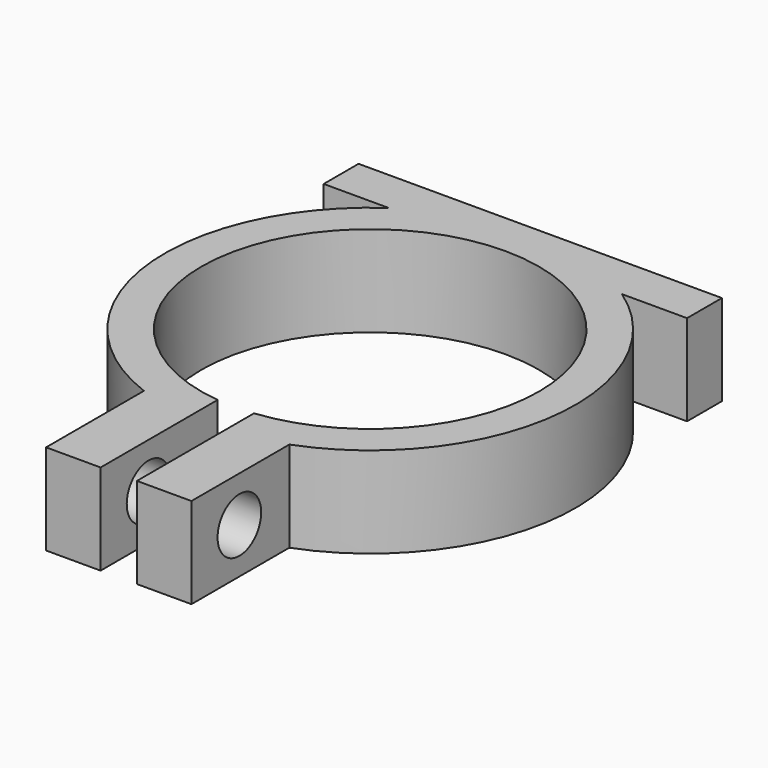
from build123d import *

# Parameters (mm, degrees)
BOX005_W                = 2
BOX005_H                = 10
BOX005_DEPTH            = 10
CYLINDER029_R           = 9.299038
CYLINDER029_DEPTH       = 10
CYLINDER030_R           = 11.299038
CYLINDER030_DEPTH       = 5
CYLINDER032_R           = 1.25
CYLINDER032_DEPTH       = 5
CYLINDER032_ROLL_ANGLE  = 90
CYLINDER031_R           = 1.25
CYLINDER031_DEPTH       = 5
CYLINDER031_ROLL_ANGLE  = 90
BOX003_W                = 20
BOX003_H                = 2.4
BOX003_DEPTH            = 5
CYLINDER033_R           = 1.5
CYLINDER033_DEPTH       = 10
CYLINDER033_PITCH_ANGLE = 90
BOX004_W                = 8
BOX004_H                = 8
BOX004_DEPTH            = 5


with BuildPart() as quader004:
    # Box005 → Box005 (new body)
    with BuildSketch(Plane(origin=(-1, -19, -1), x_dir=(1, 0, 0), z_dir=(0, 0, 1))):
        with Locations((1, 5)):
            Rectangle(BOX005_W, BOX005_H)
    extrude(amount=BOX005_DEPTH)


with BuildPart() as zylinder027:
    # Cylinder029 → Cylinder029 (new body)
    with BuildSketch(Plane.XY):
        Circle(CYLINDER029_R)
    extrude(amount=CYLINDER029_DEPTH)


with BuildPart() as cut043:
    # Cylinder030 → Cylinder030 (new body)
    with BuildSketch(Plane.XY):
        Circle(CYLINDER030_R)
    extrude(amount=CYLINDER030_DEPTH)

    # Cut043: cut Zylinder027
    add(zylinder027.part, mode=Mode.SUBTRACT)


with BuildPart() as zylinder030:
    # Cylinder032 → Cylinder032 (new body)
    with BuildSketch(Plane.XY):
        Circle(CYLINDER032_R)
    extrude(amount=CYLINDER032_DEPTH)


with BuildPart() as zylinder030_1:
    # Cylinder032 roll: moved
    add(zylinder030.part.rotate(Axis((0, 0, 0), (1, 0, 0)), CYLINDER032_ROLL_ANGLE))


with BuildPart() as zylinder030_2:
    # Cylinder032 placement: moved
    add(zylinder030_1.part.moved(Location((-5, 14, 2.5))))


with BuildPart() as zylinder029:
    # Cylinder031 → Cylinder031 (new body)
    with BuildSketch(Plane.XY):
        Circle(CYLINDER031_R)
    extrude(amount=CYLINDER031_DEPTH)


with BuildPart() as zylinder029_1:
    # Cylinder031 roll: moved
    add(zylinder029.part.rotate(Axis((0, 0, 0), (1, 0, 0)), CYLINDER031_ROLL_ANGLE))


with BuildPart() as zylinder029_2:
    # Cylinder031 placement: moved
    add(zylinder029_1.part.moved(Location((5, 14, 2.5))))


with BuildPart() as cut045:
    # Box003 → Box003 (new body)
    with BuildSketch(Plane(origin=(-10, 9.299038, 0), x_dir=(1, 0, 0), z_dir=(0, 0, 1))):
        with Locations((10, 1.2)):
            Rectangle(BOX003_W, BOX003_H)
    extrude(amount=BOX003_DEPTH)

    # Cut044: cut Zylinder029
    add(zylinder029_2.part, mode=Mode.SUBTRACT)

    # Cut045: cut Zylinder030
    add(zylinder030_2.part, mode=Mode.SUBTRACT)


with BuildPart() as zylinder031:
    # Cylinder033 → Cylinder033 (new body)
    with BuildSketch(Plane.XY):
        Circle(CYLINDER033_R)
    extrude(amount=CYLINDER033_DEPTH)


with BuildPart() as zylinder031_1:
    # Cylinder033 pitch: moved
    add(zylinder031.part.rotate(Axis((0, 0, 0), (0, 1, 0)), CYLINDER033_PITCH_ANGLE))


with BuildPart() as zylinder031_2:
    # Cylinder033 placement: moved
    add(zylinder031_1.part.moved(Location((-5, -14, 2.5))))


with BuildPart() as obj1:
    # Box004 → Box004 (new body)
    with BuildSketch(Plane(origin=(-4, -17.299038, 0), x_dir=(1, 0, 0), z_dir=(0, 0, 1))):
        with Locations((4, 4)):
            Rectangle(BOX004_W, BOX004_H)
    extrude(amount=BOX004_DEPTH)

    # Cut046: cut Zylinder031
    add(zylinder031_2.part, mode=Mode.SUBTRACT)

    # Fusion003: union Cut043, Cut045
    add(cut043.part)
    add(cut045.part)

    # Cut047: cut Quader004
    add(quader004.part, mode=Mode.SUBTRACT)


solid = obj1.part
